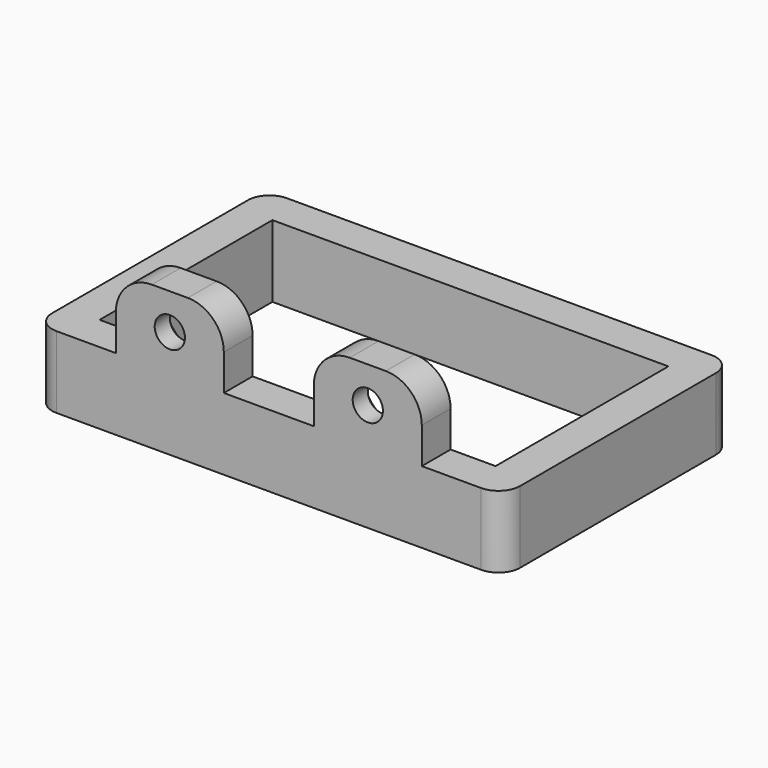
from build123d import *

# Parameters (mm, degrees)
F0_W           = 55
F0_H           = 30
F1_DEPTH       = 10
F2_W           = 15
F2_H           = 5
F3_DEPTH       = 10
F4_R           = 5
F6_D           = 4.2
F6_CSINK_D     = 8.96
F6_CSINK_ANGLE = 90


with BuildPart() as f1:
    # F0 (on Top) → F1 (new body)
    with BuildSketch(Plane.XY):
        with BuildLine():
            Line((29.5, 20), (-29.5, 20))
            ThreePointArc((-29.5, 20), (-31.62132, 19.12132), (-32.5, 17))
            Line((-32.5, 17), (-32.5, -17))
            ThreePointArc((-32.5, -17), (-31.62132, -19.12132), (-29.5, -20))
            Line((-29.5, -20), (29.5, -20))
            ThreePointArc((29.5, -20), (31.62132, -19.12132), (32.5, -17))
            Line((32.5, -17), (32.5, 17))
            ThreePointArc((32.5, 17), (31.62132, 19.12132), (29.5, 20))
        make_face()
        Rectangle(F0_W, F0_H, mode=Mode.SUBTRACT)
    extrude(amount=F1_DEPTH)

    # F2 (on face) → F3 (join)
    with BuildSketch(Plane.XY.offset(10)):
        with Locations((-13.75, -17.5)):
            Rectangle(F2_W, F2_H)
        with Locations((13.75, -17.5)):
            Rectangle(F2_W, F2_H)
    extrude(amount=F3_DEPTH)

    # F4
    f4_edges = [f1.edges().sort_by_distance(p)[0] for p in [
        (-21.25, -17.5, 20),
        (-6.25, -17.5, 20),
        (6.25, -17.5, 20),
        (21.25, -17.5, 20),
    ]]
    fillet(f4_edges, radius=F4_R)

    # F6 (through all)
    with Locations(Plane(origin=(0, -15, 0), x_dir=(-1, 0, 0), z_dir=(0, 1, 0))):
        with Locations((13.75, 15), (-13.75, 15)):
            CounterSinkHole(F6_D / 2, F6_CSINK_D / 2, counter_sink_angle=F6_CSINK_ANGLE)


solid = f1.part
